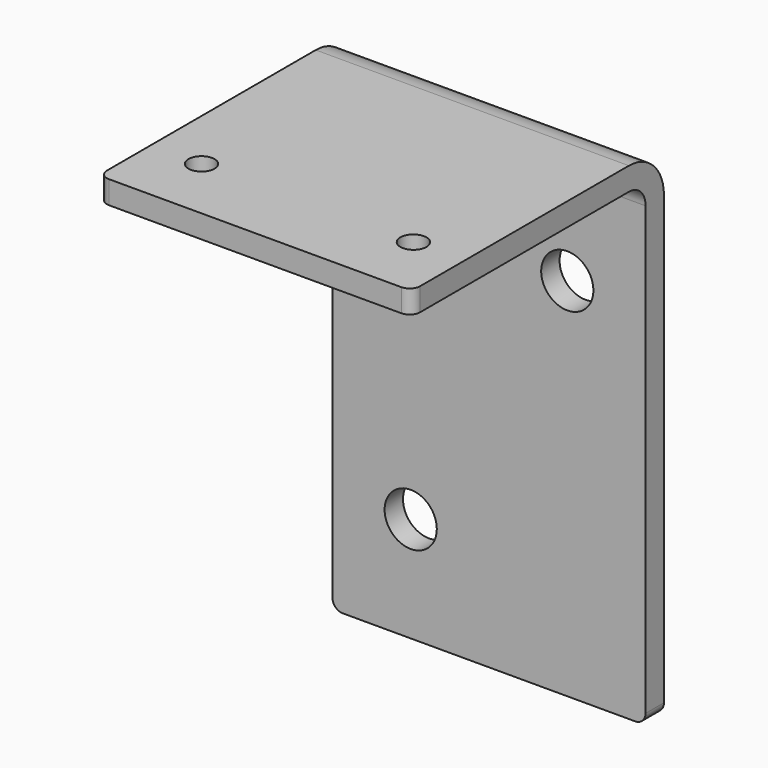
from build123d import *

# Parameters (mm, degrees)
F1_DEPTH = 38.1
F2_R     = 1.27
F3_R     = 1.5875
F4_DEPTH = 2.794
F5_R     = 3.175
F6_DEPTH = 2.794


with BuildPart() as f1:
    # F0 (on Right) → F1 (new body)
    with BuildSketch(Plane.YZ):
        with BuildLine():
            Line((-2.794, 0), (0, 0))
            Line((0, 0), (0, 55.626))
            ThreePointArc((0, 55.626), (-1.562292, 59.397708), (-5.334, 60.96))
            Line((-5.334, 60.96), (-38.354, 60.96))
            Line((-38.354, 60.96), (-38.354, 58.166))
            Line((-38.354, 58.166), (-5.334, 58.166))
            ThreePointArc((-5.334, 58.166), (-3.537949, 57.422051), (-2.794, 55.626))
            Line((-2.794, 55.626), (-2.794, 0))
        make_face()
    extrude(amount=F1_DEPTH)

    # F2
    f2_edges = [f1.edges().sort_by_distance(p)[0] for p in [
        (0, -38.354, 59.563),
        (38.1, -38.354, 59.563),
        (38.1, -1.397, 0),
        (0, -1.397, 0),
    ]]
    fillet(f2_edges, radius=F2_R)

    # F3 (on face) → F4 (cut, through all)
    with BuildSketch(Plane.XY.offset(60.96)):
        with Locations((31.9405, -30.4038)):
            Circle(F3_R)
        with Locations((6.1595, -30.4038)):
            Circle(F3_R)
    extrude(amount=-F4_DEPTH, mode=Mode.SUBTRACT)

    # F5 (on face) → F6 (cut, through all)
    with BuildSketch(Plane.XZ.offset(2.794)):
        with Locations((28.575, 44.5008)):
            Circle(F5_R)
        with Locations((9.525, 12.7508)):
            Circle(F5_R)
    extrude(amount=-F6_DEPTH, mode=Mode.SUBTRACT)


solid = f1.part
